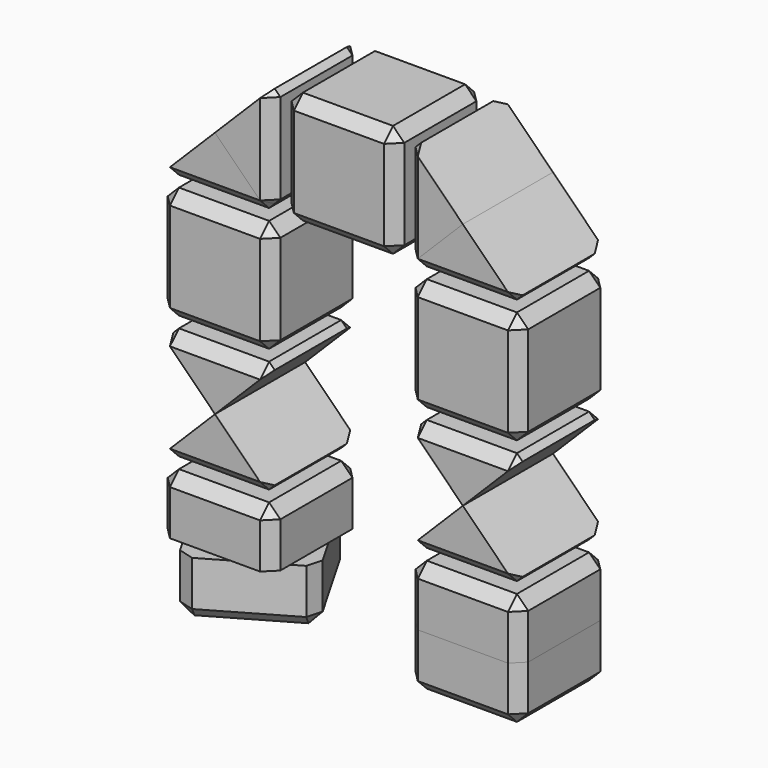
from build123d import *

# Parameters (mm, degrees)
BOX002_W               = 10
BOX002_H               = 10
BOX002_DEPTH           = 10
CHAMFER002_SIZE        = 1
BOX004_W               = 10
BOX004_H               = 10
BOX004_DEPTH           = 10
CHAMFER004_SIZE        = 1
BOX006_W               = 10
BOX006_H               = 10
BOX006_DEPTH           = 10
CHAMFER006_SIZE        = 1
BOX010_W               = 10
BOX010_H               = 10
BOX010_DEPTH           = 10
CHAMFER009_SIZE        = 1
BOX011_W               = 15
BOX011_H               = 16
BOX011_DEPTH           = 10
COMMON_PLACEMENT_ANGLE = 30
BOX009_W               = 15
BOX009_H               = 16
BOX009_DEPTH           = 10
BOX_W                  = 10
BOX_H                  = 10
BOX_DEPTH              = 10
CHAMFER_SIZE           = 1
BOX015_W               = 10
BOX015_H               = 10
BOX015_DEPTH           = 10
CHAMFER011_SIZE        = 1
BOX014_W               = 15
BOX014_H               = 16
BOX014_DEPTH           = 10
BOX013_W               = 15
BOX013_H               = 16
BOX013_DEPTH           = 10
BOX012_W               = 10
BOX012_H               = 10
BOX012_DEPTH           = 10
CHAMFER010_SIZE        = 1
BOX020_W               = 10
BOX020_H               = 21
BOX020_DEPTH           = 10
BOX020_PLACEMENT_ANGLE = 45
BOX019_W               = 10
BOX019_H               = 21
BOX019_DEPTH           = 10
BOX019_PLACEMENT_ANGLE = 45
BOX022_W               = 15
BOX022_H               = 16
BOX022_DEPTH           = 10
BOX001_W               = 10
BOX001_H               = 10
BOX001_DEPTH           = 10
CHAMFER001_SIZE        = 1
BOX017_W               = 10
BOX017_H               = 21
BOX017_DEPTH           = 10
BOX017_PLACEMENT_ANGLE = 45
BOX016_W               = 10
BOX016_H               = 21
BOX016_DEPTH           = 10
BOX016_PLACEMENT_ANGLE = 45
BOX021_W               = 10
BOX021_H               = 10
BOX021_DEPTH           = 10
CHAMFER012_SIZE        = 1
BOX023_W               = 15
BOX023_H               = 16
BOX023_DEPTH           = 10
BOX026_W               = 10
BOX026_H               = 21
BOX026_DEPTH           = 10
BOX026_PLACEMENT_ANGLE = 45
BOX025_W               = 10
BOX025_H               = 21
BOX025_DEPTH           = 10
BOX025_PLACEMENT_ANGLE = 45
BOX027_W               = 15
BOX027_H               = 16
BOX027_DEPTH           = 10
BOX024_W               = 10
BOX024_H               = 10
BOX024_DEPTH           = 10
CHAMFER013_SIZE        = 1
CUT006_PLACEMENT_ANGLE = 90
BOX029_W               = 10
BOX029_H               = 21
BOX029_DEPTH           = 10
BOX029_PLACEMENT_ANGLE = 45
BOX028_W               = 10
BOX028_H               = 21
BOX028_DEPTH           = 10
BOX028_PLACEMENT_ANGLE = 45
BOX030_W               = 10
BOX030_H               = 10
BOX030_DEPTH           = 10
CHAMFER014_SIZE        = 1
BOX031_W               = 15
BOX031_H               = 16
BOX031_DEPTH           = 10
BOX034_W               = 10
BOX034_H               = 21
BOX034_DEPTH           = 10
BOX034_PLACEMENT_ANGLE = 45
BOX032_W               = 10
BOX032_H               = 21
BOX032_DEPTH           = 10
BOX032_PLACEMENT_ANGLE = 45
BOX035_W               = 15
BOX035_H               = 16
BOX035_DEPTH           = 10
BOX033_W               = 10
BOX033_H               = 10
BOX033_DEPTH           = 10
CHAMFER015_SIZE        = 1
CUT008_PLACEMENT_ANGLE = 90
BOX038_W               = 10
BOX038_H               = 21
BOX038_DEPTH           = 10
BOX038_PLACEMENT_ANGLE = 45
BOX036_W               = 10
BOX036_H               = 21
BOX036_DEPTH           = 10
BOX036_PLACEMENT_ANGLE = 45
BOX039_W               = 10
BOX039_H               = 10
BOX039_DEPTH           = 10
CHAMFER016_SIZE        = 1
BOX037_W               = 15
BOX037_H               = 16
BOX037_DEPTH           = 10
BOX042_W               = 10
BOX042_H               = 21
BOX042_DEPTH           = 10
BOX042_PLACEMENT_ANGLE = 45
BOX041_W               = 10
BOX041_H               = 21
BOX041_DEPTH           = 10
BOX041_PLACEMENT_ANGLE = 45
BOX043_W               = 15
BOX043_H               = 16
BOX043_DEPTH           = 10
BOX040_W               = 10
BOX040_H               = 10
BOX040_DEPTH           = 10
CHAMFER017_SIZE        = 1
BOX045_W               = 10
BOX045_H               = 21
BOX045_DEPTH           = 10
BOX045_PLACEMENT_ANGLE = 45
BOX044_W               = 10
BOX044_H               = 21
BOX044_DEPTH           = 10
BOX044_PLACEMENT_ANGLE = 45
BOX046_W               = 10
BOX046_H               = 10
BOX046_DEPTH           = 10
CHAMFER018_SIZE        = 1
BOX047_W               = 15
BOX047_H               = 16
BOX047_DEPTH           = 10


with BuildPart() as chamfer002:
    # Box002 → Box002 (new body)
    with BuildSketch(Plane.XY):
        with Locations((5, 5)):
            Rectangle(BOX002_W, BOX002_H)
    extrude(amount=BOX002_DEPTH)

    # Chamfer002
    chamfer002_edges = [chamfer002.edges().sort_by_distance(p)[0] for p in [
        (0, 0, 5),
        (0, 5, 10),
        (0, 10, 5),
        (0, 5, 0),
        (10, 0, 5),
        (10, 5, 10),
        (10, 10, 5),
        (10, 5, 0),
        (5, 0, 0),
        (5, 0, 10),
        (5, 10, 0),
        (5, 10, 10),
    ]]
    chamfer(chamfer002_edges, length=CHAMFER002_SIZE)


with BuildPart() as chamfer002_1:
    # Chamfer002 placement: moved
    add(chamfer002.part.moved(Location((0, 0, 22))))


with BuildPart() as chamfer004:
    # Box004 → Box004 (new body)
    with BuildSketch(Plane.XY):
        with Locations((5, 5)):
            Rectangle(BOX004_W, BOX004_H)
    extrude(amount=BOX004_DEPTH)

    # Chamfer004
    chamfer004_edges = [chamfer004.edges().sort_by_distance(p)[0] for p in [
        (0, 0, 5),
        (0, 5, 10),
        (0, 10, 5),
        (0, 5, 0),
        (10, 0, 5),
        (10, 5, 10),
        (10, 10, 5),
        (10, 5, 0),
        (5, 0, 0),
        (5, 0, 10),
        (5, 10, 0),
        (5, 10, 10),
    ]]
    chamfer(chamfer004_edges, length=CHAMFER004_SIZE)


with BuildPart() as chamfer004_1:
    # Chamfer004 placement: moved
    add(chamfer004.part.moved(Location((11, 0, 33))))


with BuildPart() as chamfer006:
    # Box006 → Box006 (new body)
    with BuildSketch(Plane.XY):
        with Locations((5, 5)):
            Rectangle(BOX006_W, BOX006_H)
    extrude(amount=BOX006_DEPTH)

    # Chamfer006
    chamfer006_edges = [chamfer006.edges().sort_by_distance(p)[0] for p in [
        (0, 0, 5),
        (0, 5, 10),
        (0, 10, 5),
        (0, 5, 0),
        (10, 0, 5),
        (10, 5, 10),
        (10, 10, 5),
        (10, 5, 0),
        (5, 0, 0),
        (5, 0, 10),
        (5, 10, 0),
        (5, 10, 10),
    ]]
    chamfer(chamfer006_edges, length=CHAMFER006_SIZE)


with BuildPart() as chamfer006_1:
    # Chamfer006 placement: moved
    add(chamfer006.part.moved(Location((22, 0, 22))))


with BuildPart() as chamfer009:
    # Box010 → Box010 (new body)
    with BuildSketch(Plane.XY):
        with Locations((5, 5)):
            Rectangle(BOX010_W, BOX010_H)
    extrude(amount=BOX010_DEPTH)

    # Chamfer009
    chamfer009_edges = [chamfer009.edges().sort_by_distance(p)[0] for p in [
        (0, 0, 5),
        (0, 5, 10),
        (0, 10, 5),
        (0, 5, 0),
        (10, 0, 5),
        (10, 5, 10),
        (10, 10, 5),
        (10, 5, 0),
        (5, 0, 0),
        (5, 0, 10),
        (5, 10, 0),
        (5, 10, 10),
    ]]
    chamfer(chamfer009_edges, length=CHAMFER009_SIZE)


with BuildPart() as common:
    # Box011 → Box011 (new body)
    with BuildSketch(Plane(origin=(-2, -2, -5), x_dir=(1, 0, 0), z_dir=(0, 0, 1))):
        with Locations((7.5, 8)):
            Rectangle(BOX011_W, BOX011_H)
    extrude(amount=BOX011_DEPTH)

    # Common: intersect Chamfer009
    add(chamfer009.part, mode=Mode.INTERSECT)


with BuildPart() as common_1:
    # Common placement: moved
    add(common.part.moved(Location((3.169873, -1.830127, 0))).rotate(Axis((3.169873, -1.830127, 0), (0, 0, 1)), COMMON_PLACEMENT_ANGLE))


with BuildPart() as cube009:
    # Box009 → Box009 (new body)
    with BuildSketch(Plane(origin=(-2, -2, -5), x_dir=(1, 0, 0), z_dir=(0, 0, 1))):
        with Locations((7.5, 8)):
            Rectangle(BOX009_W, BOX009_H)
    extrude(amount=BOX009_DEPTH)


with BuildPart() as cut:
    # Box → Box (new body)
    with BuildSketch(Plane.XY):
        with Locations((5, 5)):
            Rectangle(BOX_W, BOX_H)
    extrude(amount=BOX_DEPTH)

    # Chamfer
    chamfer_edges = [cut.edges().sort_by_distance(p)[0] for p in [
        (0, 0, 5),
        (0, 5, 10),
        (0, 10, 5),
        (0, 5, 0),
        (10, 0, 5),
        (10, 5, 10),
        (10, 10, 5),
        (10, 5, 0),
        (5, 0, 0),
        (5, 0, 10),
        (5, 10, 0),
        (5, 10, 10),
    ]]
    chamfer(chamfer_edges, length=CHAMFER_SIZE)

    # Cut: cut Cube009
    add(cube009.part, mode=Mode.SUBTRACT)


with BuildPart() as chamfer011:
    # Box015 → Box015 (new body)
    with BuildSketch(Plane.XY):
        with Locations((5, 5)):
            Rectangle(BOX015_W, BOX015_H)
    extrude(amount=BOX015_DEPTH)

    # Chamfer011
    chamfer011_edges = [chamfer011.edges().sort_by_distance(p)[0] for p in [
        (0, 0, 5),
        (0, 5, 10),
        (0, 10, 5),
        (0, 5, 0),
        (10, 0, 5),
        (10, 5, 10),
        (10, 10, 5),
        (10, 5, 0),
        (5, 0, 0),
        (5, 0, 10),
        (5, 10, 0),
        (5, 10, 10),
    ]]
    chamfer(chamfer011_edges, length=CHAMFER011_SIZE)


with BuildPart() as common001:
    # Box014 → Box014 (new body)
    with BuildSketch(Plane(origin=(-2, -2, -5), x_dir=(1, 0, 0), z_dir=(0, 0, 1))):
        with Locations((7.5, 8)):
            Rectangle(BOX014_W, BOX014_H)
    extrude(amount=BOX014_DEPTH)

    # Common001: intersect Chamfer011
    add(chamfer011.part, mode=Mode.INTERSECT)


with BuildPart() as common001_1:
    # Common001 placement: moved
    add(common001.part.moved(Location((22, 0, 0))))


with BuildPart() as cube013:
    # Box013 → Box013 (new body)
    with BuildSketch(Plane(origin=(-2, -2, -5), x_dir=(1, 0, 0), z_dir=(0, 0, 1))):
        with Locations((7.5, 8)):
            Rectangle(BOX013_W, BOX013_H)
    extrude(amount=BOX013_DEPTH)


with BuildPart() as cut001:
    # Box012 → Box012 (new body)
    with BuildSketch(Plane.XY):
        with Locations((5, 5)):
            Rectangle(BOX012_W, BOX012_H)
    extrude(amount=BOX012_DEPTH)

    # Chamfer010
    chamfer010_edges = [cut001.edges().sort_by_distance(p)[0] for p in [
        (0, 0, 5),
        (0, 5, 10),
        (0, 10, 5),
        (0, 5, 0),
        (10, 0, 5),
        (10, 5, 10),
        (10, 10, 5),
        (10, 5, 0),
        (5, 0, 0),
        (5, 0, 10),
        (5, 10, 0),
        (5, 10, 10),
    ]]
    chamfer(chamfer010_edges, length=CHAMFER010_SIZE)

    # Cut001: cut Cube013
    add(cube013.part, mode=Mode.SUBTRACT)


with BuildPart() as cut001_1:
    # Cut001 placement: moved
    add(cut001.part.moved(Location((22, 0, 0))))


with BuildPart() as cube020:
    # Box020 → Box020 (new body)
    with BuildSketch(Plane.XY):
        with Locations((5, 10.5)):
            Rectangle(BOX020_W, BOX020_H)
    extrude(amount=BOX020_DEPTH)


with BuildPart() as cube020_1:
    # Box020 placement: moved
    add(cube020.part.moved(Location((5, -5, 16))).rotate(Axis((5, -5, 16), (0, 1, 0)), BOX020_PLACEMENT_ANGLE))


with BuildPart() as part_mirroring001:
    # Part__Mirroring001: instance of Cube020
    add(cube020_1.part.mirror(Plane(origin=(0, 0, 0), x_dir=(0, -1, 0), z_dir=(1, 0, 0))))


with BuildPart() as part_mirroring001_1:
    # Part__Mirroring001 placement: moved
    add(part_mirroring001.part.moved(Location((10, 0, 0))))


with BuildPart() as fusion001:
    # Box019 → Box019 (new body)
    with BuildSketch(Plane.XY):
        with Locations((5, 10.5)):
            Rectangle(BOX019_W, BOX019_H)
    extrude(amount=BOX019_DEPTH)


with BuildPart() as fusion001_1:
    # Box019 placement: moved
    add(fusion001.part.moved(Location((5, -5, 16))).rotate(Axis((5, -5, 16), (0, 1, 0)), BOX019_PLACEMENT_ANGLE))

    # Fusion001: union Part__Mirroring001
    add(part_mirroring001_1.part)


with BuildPart() as cube022:
    # Box022 → Box022 (new body)
    with BuildSketch(Plane(origin=(-2, -2, 6), x_dir=(1, 0, 0), z_dir=(0, 0, 1))):
        with Locations((7.5, 8)):
            Rectangle(BOX022_W, BOX022_H)
    extrude(amount=BOX022_DEPTH)


with BuildPart() as cut003:
    # Box001 → Box001 (new body)
    with BuildSketch(Plane.XY):
        with Locations((5, 5)):
            Rectangle(BOX001_W, BOX001_H)
    extrude(amount=BOX001_DEPTH)

    # Chamfer001
    chamfer001_edges = [cut003.edges().sort_by_distance(p)[0] for p in [
        (0, 0, 5),
        (0, 5, 10),
        (0, 10, 5),
        (0, 5, 0),
        (10, 0, 5),
        (10, 5, 10),
        (10, 10, 5),
        (10, 5, 0),
        (5, 0, 0),
        (5, 0, 10),
        (5, 10, 0),
        (5, 10, 10),
    ]]
    chamfer(chamfer001_edges, length=CHAMFER001_SIZE)


with BuildPart() as cut003_1:
    # Chamfer001 placement: moved
    add(cut003.part.moved(Location((0, 0, 11))))

    # Cut002: cut Cube022
    add(cube022.part, mode=Mode.SUBTRACT)

    # Cut003: cut Fusion001
    add(fusion001_1.part, mode=Mode.SUBTRACT)


with BuildPart() as cube017:
    # Box017 → Box017 (new body)
    with BuildSketch(Plane.XY):
        with Locations((5, 10.5)):
            Rectangle(BOX017_W, BOX017_H)
    extrude(amount=BOX017_DEPTH)


with BuildPart() as cube017_1:
    # Box017 placement: moved
    add(cube017.part.moved(Location((5, -5, 16))).rotate(Axis((5, -5, 16), (0, 1, 0)), BOX017_PLACEMENT_ANGLE))


with BuildPart() as part_mirroring:
    # Part__Mirroring: instance of Cube017
    add(cube017_1.part.mirror(Plane(origin=(0, 0, 0), x_dir=(0, -1, 0), z_dir=(1, 0, 0))))


with BuildPart() as part_mirroring_1:
    # Part__Mirroring placement: moved
    add(part_mirroring.part.moved(Location((10, 0, 0))))


with BuildPart() as fusion:
    # Box016 → Box016 (new body)
    with BuildSketch(Plane.XY):
        with Locations((5, 10.5)):
            Rectangle(BOX016_W, BOX016_H)
    extrude(amount=BOX016_DEPTH)


with BuildPart() as fusion_1:
    # Box016 placement: moved
    add(fusion.part.moved(Location((5, -5, 16))).rotate(Axis((5, -5, 16), (0, 1, 0)), BOX016_PLACEMENT_ANGLE))

    # Fusion: union Part__Mirroring
    add(part_mirroring_1.part)


with BuildPart() as chamfer012:
    # Box021 → Box021 (new body)
    with BuildSketch(Plane.XY):
        with Locations((5, 5)):
            Rectangle(BOX021_W, BOX021_H)
    extrude(amount=BOX021_DEPTH)

    # Chamfer012
    chamfer012_edges = [chamfer012.edges().sort_by_distance(p)[0] for p in [
        (0, 0, 5),
        (0, 5, 10),
        (0, 10, 5),
        (0, 5, 0),
        (10, 0, 5),
        (10, 5, 10),
        (10, 10, 5),
        (10, 5, 0),
        (5, 0, 0),
        (5, 0, 10),
        (5, 10, 0),
        (5, 10, 10),
    ]]
    chamfer(chamfer012_edges, length=CHAMFER012_SIZE)


with BuildPart() as chamfer012_1:
    # Chamfer012 placement: moved
    add(chamfer012.part.moved(Location((0, 0, 11))))


with BuildPart() as cut004:
    # Box023 → Box023 (new body)
    with BuildSketch(Plane(origin=(-2, -2, 6), x_dir=(1, 0, 0), z_dir=(0, 0, 1))):
        with Locations((7.5, 8)):
            Rectangle(BOX023_W, BOX023_H)
    extrude(amount=BOX023_DEPTH)

    # Common002: intersect Chamfer012
    add(chamfer012_1.part, mode=Mode.INTERSECT)

    # Cut004: cut Fusion
    add(fusion_1.part, mode=Mode.SUBTRACT)


with BuildPart() as cube026:
    # Box026 → Box026 (new body)
    with BuildSketch(Plane.XY):
        with Locations((5, 10.5)):
            Rectangle(BOX026_W, BOX026_H)
    extrude(amount=BOX026_DEPTH)


with BuildPart() as cube026_1:
    # Box026 placement: moved
    add(cube026.part.moved(Location((5, -5, 16))).rotate(Axis((5, -5, 16), (0, 1, 0)), BOX026_PLACEMENT_ANGLE))


with BuildPart() as part_mirroring002:
    # Part__Mirroring002: instance of Cube026
    add(cube026_1.part.mirror(Plane(origin=(0, 0, 0), x_dir=(0, -1, 0), z_dir=(1, 0, 0))))


with BuildPart() as part_mirroring002_1:
    # Part__Mirroring002 placement: moved
    add(part_mirroring002.part.moved(Location((10, 0, 0))))


with BuildPart() as fusion002:
    # Box025 → Box025 (new body)
    with BuildSketch(Plane.XY):
        with Locations((5, 10.5)):
            Rectangle(BOX025_W, BOX025_H)
    extrude(amount=BOX025_DEPTH)


with BuildPart() as fusion002_1:
    # Box025 placement: moved
    add(fusion002.part.moved(Location((5, -5, 16))).rotate(Axis((5, -5, 16), (0, 1, 0)), BOX025_PLACEMENT_ANGLE))

    # Fusion002: union Part__Mirroring002
    add(part_mirroring002_1.part)


with BuildPart() as cube027:
    # Box027 → Box027 (new body)
    with BuildSketch(Plane(origin=(-2, -2, 6), x_dir=(1, 0, 0), z_dir=(0, 0, 1))):
        with Locations((7.5, 8)):
            Rectangle(BOX027_W, BOX027_H)
    extrude(amount=BOX027_DEPTH)


with BuildPart() as cut006:
    # Box024 → Box024 (new body)
    with BuildSketch(Plane.XY):
        with Locations((5, 5)):
            Rectangle(BOX024_W, BOX024_H)
    extrude(amount=BOX024_DEPTH)

    # Chamfer013
    chamfer013_edges = [cut006.edges().sort_by_distance(p)[0] for p in [
        (0, 0, 5),
        (0, 5, 10),
        (0, 10, 5),
        (0, 5, 0),
        (10, 0, 5),
        (10, 5, 10),
        (10, 10, 5),
        (10, 5, 0),
        (5, 0, 0),
        (5, 0, 10),
        (5, 10, 0),
        (5, 10, 10),
    ]]
    chamfer(chamfer013_edges, length=CHAMFER013_SIZE)


with BuildPart() as cut006_1:
    # Chamfer013 placement: moved
    add(cut006.part.moved(Location((0, 0, 11))))

    # Cut005: cut Cube027
    add(cube027.part, mode=Mode.SUBTRACT)

    # Cut006: cut Fusion002
    add(fusion002_1.part, mode=Mode.SUBTRACT)


with BuildPart() as cut006_2:
    # Cut006 placement: moved
    add(cut006_1.part.moved(Location((-11, 0, 43))).rotate(Axis((-11, 0, 43), (0, 1, 0)), CUT006_PLACEMENT_ANGLE))


with BuildPart() as cube029:
    # Box029 → Box029 (new body)
    with BuildSketch(Plane.XY):
        with Locations((5, 10.5)):
            Rectangle(BOX029_W, BOX029_H)
    extrude(amount=BOX029_DEPTH)


with BuildPart() as cube029_1:
    # Box029 placement: moved
    add(cube029.part.moved(Location((5, -5, 16))).rotate(Axis((5, -5, 16), (0, 1, 0)), BOX029_PLACEMENT_ANGLE))


with BuildPart() as part_mirroring003:
    # Part__Mirroring003: instance of Cube029
    add(cube029_1.part.mirror(Plane(origin=(0, 0, 0), x_dir=(0, -1, 0), z_dir=(1, 0, 0))))


with BuildPart() as part_mirroring003_1:
    # Part__Mirroring003 placement: moved
    add(part_mirroring003.part.moved(Location((10, 0, 0))))


with BuildPart() as fusion003:
    # Box028 → Box028 (new body)
    with BuildSketch(Plane.XY):
        with Locations((5, 10.5)):
            Rectangle(BOX028_W, BOX028_H)
    extrude(amount=BOX028_DEPTH)


with BuildPart() as fusion003_1:
    # Box028 placement: moved
    add(fusion003.part.moved(Location((5, -5, 16))).rotate(Axis((5, -5, 16), (0, 1, 0)), BOX028_PLACEMENT_ANGLE))

    # Fusion003: union Part__Mirroring003
    add(part_mirroring003_1.part)


with BuildPart() as chamfer014:
    # Box030 → Box030 (new body)
    with BuildSketch(Plane.XY):
        with Locations((5, 5)):
            Rectangle(BOX030_W, BOX030_H)
    extrude(amount=BOX030_DEPTH)

    # Chamfer014
    chamfer014_edges = [chamfer014.edges().sort_by_distance(p)[0] for p in [
        (0, 0, 5),
        (0, 5, 10),
        (0, 10, 5),
        (0, 5, 0),
        (10, 0, 5),
        (10, 5, 10),
        (10, 10, 5),
        (10, 5, 0),
        (5, 0, 0),
        (5, 0, 10),
        (5, 10, 0),
        (5, 10, 10),
    ]]
    chamfer(chamfer014_edges, length=CHAMFER014_SIZE)


with BuildPart() as chamfer014_1:
    # Chamfer014 placement: moved
    add(chamfer014.part.moved(Location((0, 0, 11))))


with BuildPart() as cut007:
    # Box031 → Box031 (new body)
    with BuildSketch(Plane(origin=(-2, -2, 6), x_dir=(1, 0, 0), z_dir=(0, 0, 1))):
        with Locations((7.5, 8)):
            Rectangle(BOX031_W, BOX031_H)
    extrude(amount=BOX031_DEPTH)

    # Common003: intersect Chamfer014
    add(chamfer014_1.part, mode=Mode.INTERSECT)

    # Cut007: cut Fusion003
    add(fusion003_1.part, mode=Mode.SUBTRACT)


with BuildPart() as cut007_1:
    # Cut007 placement: moved
    add(cut007.part.moved(Location((0, 0, 22))))


with BuildPart() as cube034:
    # Box034 → Box034 (new body)
    with BuildSketch(Plane.XY):
        with Locations((5, 10.5)):
            Rectangle(BOX034_W, BOX034_H)
    extrude(amount=BOX034_DEPTH)


with BuildPart() as cube034_1:
    # Box034 placement: moved
    add(cube034.part.moved(Location((5, -5, 16))).rotate(Axis((5, -5, 16), (0, 1, 0)), BOX034_PLACEMENT_ANGLE))


with BuildPart() as part_mirroring004:
    # Part__Mirroring004: instance of Cube034
    add(cube034_1.part.mirror(Plane(origin=(0, 0, 0), x_dir=(0, -1, 0), z_dir=(1, 0, 0))))


with BuildPart() as part_mirroring004_1:
    # Part__Mirroring004 placement: moved
    add(part_mirroring004.part.moved(Location((10, 0, 0))))


with BuildPart() as fusion004:
    # Box032 → Box032 (new body)
    with BuildSketch(Plane.XY):
        with Locations((5, 10.5)):
            Rectangle(BOX032_W, BOX032_H)
    extrude(amount=BOX032_DEPTH)


with BuildPart() as fusion004_1:
    # Box032 placement: moved
    add(fusion004.part.moved(Location((5, -5, 16))).rotate(Axis((5, -5, 16), (0, 1, 0)), BOX032_PLACEMENT_ANGLE))

    # Fusion004: union Part__Mirroring004
    add(part_mirroring004_1.part)


with BuildPart() as cube035:
    # Box035 → Box035 (new body)
    with BuildSketch(Plane(origin=(-2, -2, 6), x_dir=(1, 0, 0), z_dir=(0, 0, 1))):
        with Locations((7.5, 8)):
            Rectangle(BOX035_W, BOX035_H)
    extrude(amount=BOX035_DEPTH)


with BuildPart() as cut008:
    # Box033 → Box033 (new body)
    with BuildSketch(Plane.XY):
        with Locations((5, 5)):
            Rectangle(BOX033_W, BOX033_H)
    extrude(amount=BOX033_DEPTH)

    # Chamfer015
    chamfer015_edges = [cut008.edges().sort_by_distance(p)[0] for p in [
        (0, 0, 5),
        (0, 5, 10),
        (0, 10, 5),
        (0, 5, 0),
        (10, 0, 5),
        (10, 5, 10),
        (10, 10, 5),
        (10, 5, 0),
        (5, 0, 0),
        (5, 0, 10),
        (5, 10, 0),
        (5, 10, 10),
    ]]
    chamfer(chamfer015_edges, length=CHAMFER015_SIZE)


with BuildPart() as cut008_1:
    # Chamfer015 placement: moved
    add(cut008.part.moved(Location((0, 0, 11))))

    # Cut009: cut Cube035
    add(cube035.part, mode=Mode.SUBTRACT)

    # Cut008: cut Fusion004
    add(fusion004_1.part, mode=Mode.SUBTRACT)


with BuildPart() as cut008_2:
    # Cut008 placement: moved
    add(cut008_1.part.moved(Location((-11, 0, 43))).rotate(Axis((-11, 0, 43), (0, 1, 0)), CUT008_PLACEMENT_ANGLE))


with BuildPart() as part_mirroring005:
    # Part__Mirroring005: instance of Cut008
    add(cut008_2.part.mirror(Plane(origin=(-5, 0, 0), x_dir=(0, -1, 0), z_dir=(1, 0, 0))))


with BuildPart() as part_mirroring005_1:
    # Part__Mirroring005 placement: moved
    add(part_mirroring005.part.moved(Location((42, 0, 0))))


with BuildPart() as cube038:
    # Box038 → Box038 (new body)
    with BuildSketch(Plane.XY):
        with Locations((5, 10.5)):
            Rectangle(BOX038_W, BOX038_H)
    extrude(amount=BOX038_DEPTH)


with BuildPart() as cube038_1:
    # Box038 placement: moved
    add(cube038.part.moved(Location((5, -5, 16))).rotate(Axis((5, -5, 16), (0, 1, 0)), BOX038_PLACEMENT_ANGLE))


with BuildPart() as part_mirroring006:
    # Part__Mirroring006: instance of Cube038
    add(cube038_1.part.mirror(Plane(origin=(0, 0, 0), x_dir=(0, -1, 0), z_dir=(1, 0, 0))))


with BuildPart() as part_mirroring006_1:
    # Part__Mirroring006 placement: moved
    add(part_mirroring006.part.moved(Location((10, 0, 0))))


with BuildPart() as fusion005:
    # Box036 → Box036 (new body)
    with BuildSketch(Plane.XY):
        with Locations((5, 10.5)):
            Rectangle(BOX036_W, BOX036_H)
    extrude(amount=BOX036_DEPTH)


with BuildPart() as fusion005_1:
    # Box036 placement: moved
    add(fusion005.part.moved(Location((5, -5, 16))).rotate(Axis((5, -5, 16), (0, 1, 0)), BOX036_PLACEMENT_ANGLE))

    # Fusion005: union Part__Mirroring006
    add(part_mirroring006_1.part)


with BuildPart() as chamfer016:
    # Box039 → Box039 (new body)
    with BuildSketch(Plane.XY):
        with Locations((5, 5)):
            Rectangle(BOX039_W, BOX039_H)
    extrude(amount=BOX039_DEPTH)

    # Chamfer016
    chamfer016_edges = [chamfer016.edges().sort_by_distance(p)[0] for p in [
        (0, 0, 5),
        (0, 5, 10),
        (0, 10, 5),
        (0, 5, 0),
        (10, 0, 5),
        (10, 5, 10),
        (10, 10, 5),
        (10, 5, 0),
        (5, 0, 0),
        (5, 0, 10),
        (5, 10, 0),
        (5, 10, 10),
    ]]
    chamfer(chamfer016_edges, length=CHAMFER016_SIZE)


with BuildPart() as chamfer016_1:
    # Chamfer016 placement: moved
    add(chamfer016.part.moved(Location((0, 0, 11))))


with BuildPart() as cut010:
    # Box037 → Box037 (new body)
    with BuildSketch(Plane(origin=(-2, -2, 6), x_dir=(1, 0, 0), z_dir=(0, 0, 1))):
        with Locations((7.5, 8)):
            Rectangle(BOX037_W, BOX037_H)
    extrude(amount=BOX037_DEPTH)

    # Common004: intersect Chamfer016
    add(chamfer016_1.part, mode=Mode.INTERSECT)

    # Cut010: cut Fusion005
    add(fusion005_1.part, mode=Mode.SUBTRACT)


with BuildPart() as cut010_1:
    # Cut010 placement: moved
    add(cut010.part.moved(Location((22, 0, 22))))


with BuildPart() as cube042:
    # Box042 → Box042 (new body)
    with BuildSketch(Plane.XY):
        with Locations((5, 10.5)):
            Rectangle(BOX042_W, BOX042_H)
    extrude(amount=BOX042_DEPTH)


with BuildPart() as cube042_1:
    # Box042 placement: moved
    add(cube042.part.moved(Location((5, -5, 16))).rotate(Axis((5, -5, 16), (0, 1, 0)), BOX042_PLACEMENT_ANGLE))


with BuildPart() as part_mirroring007:
    # Part__Mirroring007: instance of Cube042
    add(cube042_1.part.mirror(Plane(origin=(0, 0, 0), x_dir=(0, -1, 0), z_dir=(1, 0, 0))))


with BuildPart() as part_mirroring007_1:
    # Part__Mirroring007 placement: moved
    add(part_mirroring007.part.moved(Location((10, 0, 0))))


with BuildPart() as fusion006:
    # Box041 → Box041 (new body)
    with BuildSketch(Plane.XY):
        with Locations((5, 10.5)):
            Rectangle(BOX041_W, BOX041_H)
    extrude(amount=BOX041_DEPTH)


with BuildPart() as fusion006_1:
    # Box041 placement: moved
    add(fusion006.part.moved(Location((5, -5, 16))).rotate(Axis((5, -5, 16), (0, 1, 0)), BOX041_PLACEMENT_ANGLE))

    # Fusion006: union Part__Mirroring007
    add(part_mirroring007_1.part)


with BuildPart() as cube043:
    # Box043 → Box043 (new body)
    with BuildSketch(Plane(origin=(-2, -2, 6), x_dir=(1, 0, 0), z_dir=(0, 0, 1))):
        with Locations((7.5, 8)):
            Rectangle(BOX043_W, BOX043_H)
    extrude(amount=BOX043_DEPTH)


with BuildPart() as cut012:
    # Box040 → Box040 (new body)
    with BuildSketch(Plane.XY):
        with Locations((5, 5)):
            Rectangle(BOX040_W, BOX040_H)
    extrude(amount=BOX040_DEPTH)

    # Chamfer017
    chamfer017_edges = [cut012.edges().sort_by_distance(p)[0] for p in [
        (0, 0, 5),
        (0, 5, 10),
        (0, 10, 5),
        (0, 5, 0),
        (10, 0, 5),
        (10, 5, 10),
        (10, 10, 5),
        (10, 5, 0),
        (5, 0, 0),
        (5, 0, 10),
        (5, 10, 0),
        (5, 10, 10),
    ]]
    chamfer(chamfer017_edges, length=CHAMFER017_SIZE)


with BuildPart() as cut012_1:
    # Chamfer017 placement: moved
    add(cut012.part.moved(Location((0, 0, 11))))

    # Cut011: cut Cube043
    add(cube043.part, mode=Mode.SUBTRACT)

    # Cut012: cut Fusion006
    add(fusion006_1.part, mode=Mode.SUBTRACT)


with BuildPart() as cut012_2:
    # Cut012 placement: moved
    add(cut012_1.part.moved(Location((22, 0, 0))))


with BuildPart() as cube045:
    # Box045 → Box045 (new body)
    with BuildSketch(Plane.XY):
        with Locations((5, 10.5)):
            Rectangle(BOX045_W, BOX045_H)
    extrude(amount=BOX045_DEPTH)


with BuildPart() as cube045_1:
    # Box045 placement: moved
    add(cube045.part.moved(Location((5, -5, 16))).rotate(Axis((5, -5, 16), (0, 1, 0)), BOX045_PLACEMENT_ANGLE))


with BuildPart() as part_mirroring008:
    # Part__Mirroring008: instance of Cube045
    add(cube045_1.part.mirror(Plane(origin=(0, 0, 0), x_dir=(0, -1, 0), z_dir=(1, 0, 0))))


with BuildPart() as part_mirroring008_1:
    # Part__Mirroring008 placement: moved
    add(part_mirroring008.part.moved(Location((10, 0, 0))))


with BuildPart() as fusion007:
    # Box044 → Box044 (new body)
    with BuildSketch(Plane.XY):
        with Locations((5, 10.5)):
            Rectangle(BOX044_W, BOX044_H)
    extrude(amount=BOX044_DEPTH)


with BuildPart() as fusion007_1:
    # Box044 placement: moved
    add(fusion007.part.moved(Location((5, -5, 16))).rotate(Axis((5, -5, 16), (0, 1, 0)), BOX044_PLACEMENT_ANGLE))

    # Fusion007: union Part__Mirroring008
    add(part_mirroring008_1.part)


with BuildPart() as chamfer018:
    # Box046 → Box046 (new body)
    with BuildSketch(Plane.XY):
        with Locations((5, 5)):
            Rectangle(BOX046_W, BOX046_H)
    extrude(amount=BOX046_DEPTH)

    # Chamfer018
    chamfer018_edges = [chamfer018.edges().sort_by_distance(p)[0] for p in [
        (0, 0, 5),
        (0, 5, 10),
        (0, 10, 5),
        (0, 5, 0),
        (10, 0, 5),
        (10, 5, 10),
        (10, 10, 5),
        (10, 5, 0),
        (5, 0, 0),
        (5, 0, 10),
        (5, 10, 0),
        (5, 10, 10),
    ]]
    chamfer(chamfer018_edges, length=CHAMFER018_SIZE)


with BuildPart() as chamfer018_1:
    # Chamfer018 placement: moved
    add(chamfer018.part.moved(Location((0, 0, 11))))


with BuildPart() as cut013:
    # Box047 → Box047 (new body)
    with BuildSketch(Plane(origin=(-2, -2, 6), x_dir=(1, 0, 0), z_dir=(0, 0, 1))):
        with Locations((7.5, 8)):
            Rectangle(BOX047_W, BOX047_H)
    extrude(amount=BOX047_DEPTH)

    # Common005: intersect Chamfer018
    add(chamfer018_1.part, mode=Mode.INTERSECT)

    # Cut013: cut Fusion007
    add(fusion007_1.part, mode=Mode.SUBTRACT)


with BuildPart() as cut013_1:
    # Cut013 placement: moved
    add(cut013.part.moved(Location((22, 0, 0))))


solid = Compound([chamfer002_1.part, chamfer004_1.part, chamfer006_1.part, common_1.part, cut.part, common001_1.part, cut001_1.part, cut003_1.part, cut004.part, cut006_2.part, cut007_1.part, part_mirroring005_1.part, cut010_1.part, cut012_2.part, cut013_1.part])
